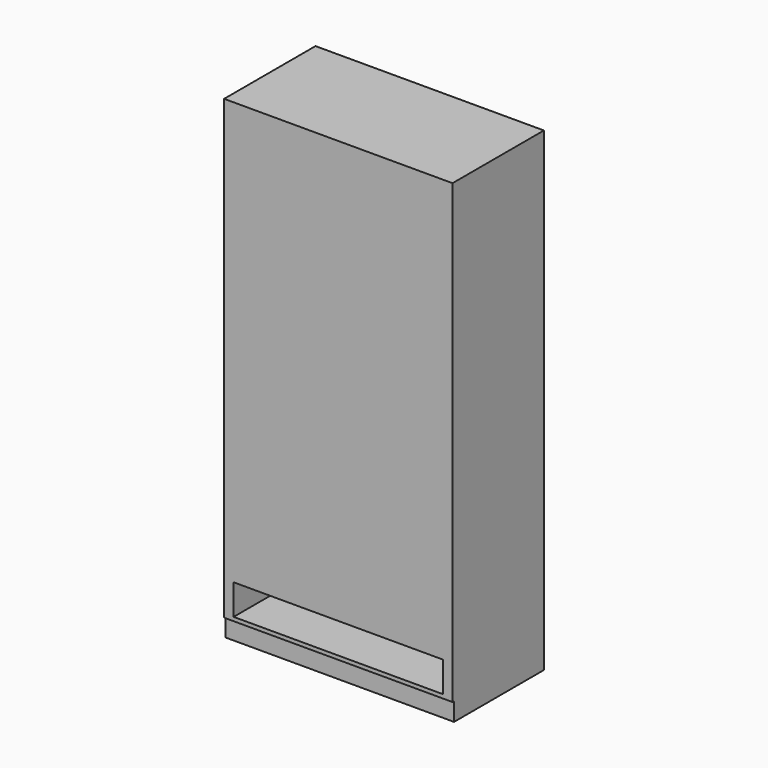
from build123d import *

# Parameters (mm, degrees)
F0_W     = 600
F0_H     = 2496
F1_DEPTH = 1200
F2_W     = 1200
F2_H     = 96
F3_DEPTH = 10
F4_W     = 1100
F4_H     = 160
F5_DEPTH = 580


with BuildPart() as f1:
    # F0 (on Right) → F1 (new body)
    with BuildSketch(Plane.YZ):
        Rectangle(F0_W, F0_H)
    extrude(amount=F1_DEPTH)

    # F2 (on face) → F3 (cut)
    with BuildSketch(Plane.XZ.offset(300)):
        with Locations((600, -1200)):
            Rectangle(F2_W, F2_H)
    extrude(amount=-F3_DEPTH, mode=Mode.SUBTRACT)

    # F4 (on face) → F5 (cut)
    with BuildSketch(Plane.XZ.offset(300)):
        with Locations((600, -1052)):
            Rectangle(F4_W, F4_H)
    extrude(amount=-F5_DEPTH, mode=Mode.SUBTRACT)


solid = f1.part
